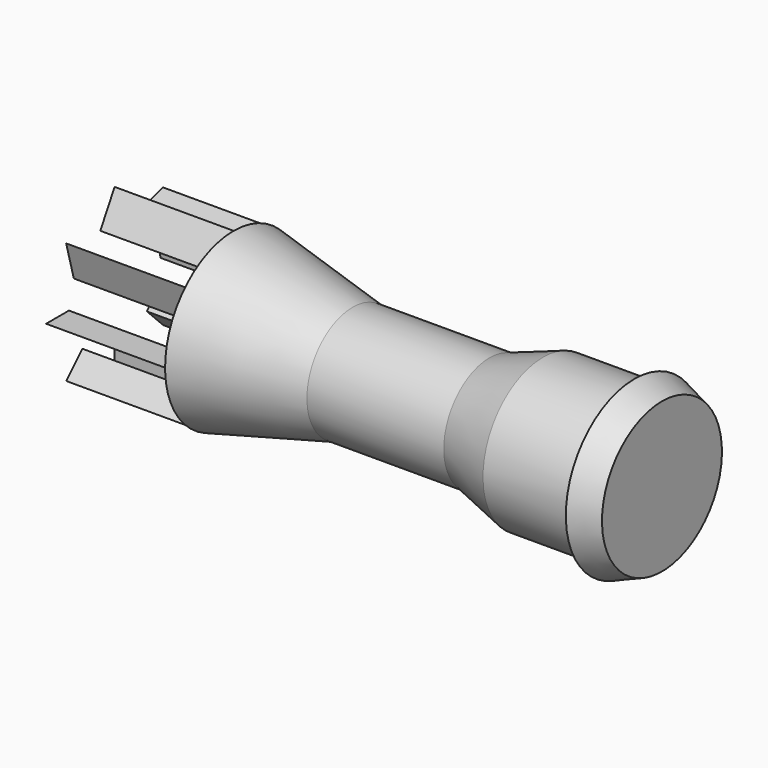
from build123d import *

# Parameters (mm, degrees)
F2_R     = 4.7498
F3_DEPTH = 43.815
F8_DEPTH = 12.7


with BuildPart() as f1:
    # F0 (on Front) → F1 (revolve)
    with BuildSketch(Plane.XZ):
        Polygon((-45.72, 9.144), (-45.72, 6.096), (-33.02, 6.096), align=None)
        Polygon((-45.72, 0), (0, 0), (0, 6.096), (-18.415, 6.096), (-33.02, 6.096), (-45.72, 6.096), align=None)
        Polygon((-18.415, 6.096), (0, 6.096), (0, 8.001), (-2.946507, 8.001), (-12.7, 8.001), align=None)
        Polygon((-2.946507, 8.001), (0, 8.001), (-2.946507, 9.144), align=None)
    revolve(axis=Axis((-22.86, 0, 0), (-1, 0, 0)))

    # F2 (on face) → F3 (cut)
    with BuildSketch(Plane(origin=(-45.72, 0, 0), x_dir=(0, -1, 0), z_dir=(-1, 0, 0))):
        Circle(F2_R)
    extrude(amount=-F3_DEPTH, mode=Mode.SUBTRACT)


with BuildPart() as f5_1:
    # F5: copy of F1
    add(f1.part)


with BuildPart() as f6_1:
    # F6: copy of F1
    add(f1.part)


with BuildPart() as f8:
    # F7 (on face) → F8 (new body)
    with BuildSketch(Plane(origin=(-45.72, 0, 0), x_dir=(0, -1, 0), z_dir=(-1, 0, 0))):
        with BuildLine():
            Line((1.908993, 5.789384), (0, 9.144))
            Line((0, 9.144), (0, 6.096))
            ThreePointArc((0, 6.096), (0.96673, 6.018858), (1.908993, 5.789384))
        make_face()
        with BuildLine():
            Line((5.443574, 2.743851), (6.465784, 6.465784))
            Line((6.465784, 6.465784), (4.310523, 4.310523))
            ThreePointArc((4.310523, 4.310523), (4.939556, 3.572394), (5.443574, 2.743851))
        make_face()
        with BuildLine():
            Line((5.789384, -1.908993), (9.144, 0))
            Line((9.144, 0), (6.096, 0))
            ThreePointArc((6.096, 0), (6.018858, -0.96673), (5.789384, -1.908993))
        make_face()
        with BuildLine():
            Line((2.743851, -5.443574), (6.465784, -6.465784))
            Line((6.465784, -6.465784), (4.310523, -4.310523))
            ThreePointArc((4.310523, -4.310523), (3.572394, -4.939556), (2.743851, -5.443574))
        make_face()
        with BuildLine():
            Line((-1.908993, -5.789384), (0, -9.144))
            Line((0, -9.144), (0, -6.096))
            ThreePointArc((0, -6.096), (-0.96673, -6.018858), (-1.908993, -5.789384))
        make_face()
        with BuildLine():
            Line((-5.443574, -2.743851), (-6.465784, -6.465784))
            Line((-6.465784, -6.465784), (-4.310523, -4.310523))
            ThreePointArc((-4.310523, -4.310523), (-4.939556, -3.572394), (-5.443574, -2.743851))
        make_face()
        with BuildLine():
            Line((-5.789384, 1.908993), (-9.144, 0))
            Line((-9.144, 0), (-6.096, 0))
            ThreePointArc((-6.096, 0), (-6.018858, 0.96673), (-5.789384, 1.908993))
        make_face()
        with BuildLine():
            Line((-2.743851, 5.443574), (-6.465784, 6.465784))
            Line((-6.465784, 6.465784), (-4.310523, 4.310523))
            ThreePointArc((-4.310523, 4.310523), (-3.572394, 4.939556), (-2.743851, 5.443574))
        make_face()
    extrude(amount=F8_DEPTH)


solid = Compound([f1.part, f5_1.part, f6_1.part, f8.part])
